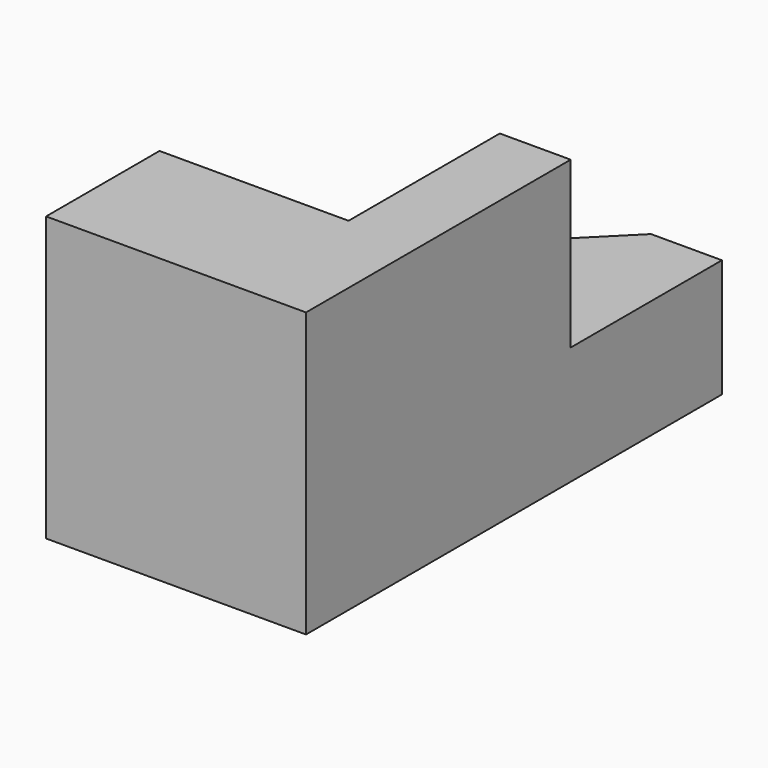
from build123d import *

# Parameters (mm, degrees)
F1_DEPTH = 635
F2_W     = 1016
F2_H     = 762
F3_DEPTH = 889
F5_DEPTH = 889


with BuildPart() as f1:
    # F0 (on Top) → F1 (new body)
    with BuildSketch(Plane.XY):
        Polygon((0, 1778), (0, 0), (1397, 0), (1397, 2794), (1016, 2794), align=None)
    extrude(amount=F1_DEPTH)

    # F2 (on face) → F3 (join)
    with BuildSketch(Plane.XY.offset(635)):
        with Locations((508, 381)):
            Rectangle(F2_W, F2_H)
    extrude(amount=F3_DEPTH)

    # F4 (on face) → F5 (join)
    with BuildSketch(Plane.XY.offset(635)):
        Polygon((1016, 762), (1016, 0), (1397, 0), (1397, 1778), (1016, 1778), align=None)
    extrude(amount=F5_DEPTH)


solid = f1.part
